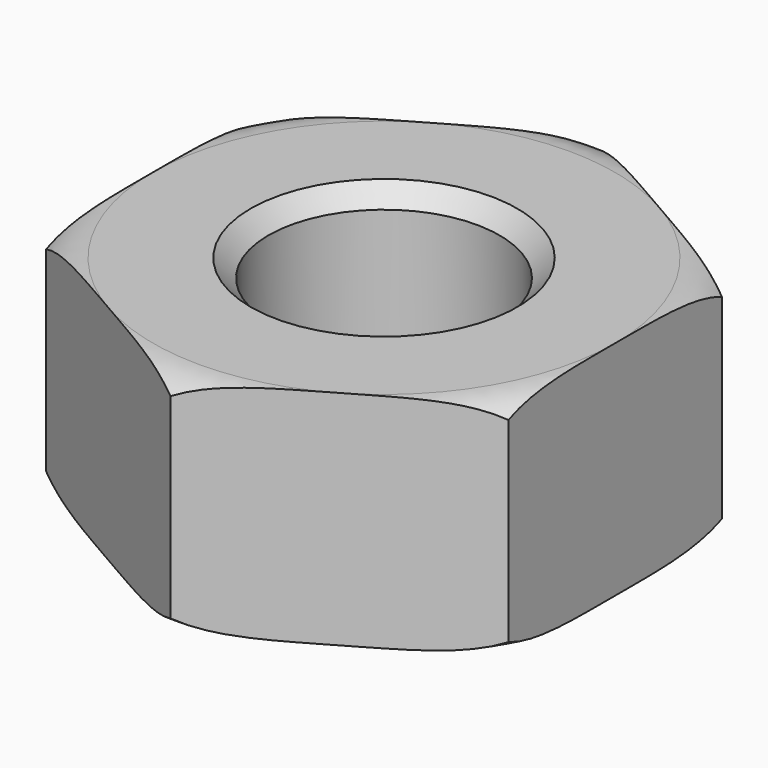
from build123d import *

# Parameters (mm, degrees)
F2_R     = 8.530956
F3_DEPTH = 12.5


with BuildPart() as f1:
    # F0 (on Front) → F1 (revolve)
    with BuildSketch(Plane.XZ):
        with BuildLine():
            Line((-3.25, -2.625), (-3.25, 0))
            Line((-3.25, 0), (-3.25, 2.625))
            Line((-3.25, 2.625), (-3.75, 3.125))
            Line((-3.75, 3.125), (-6.5, 3.125))
            ThreePointArc((-6.5, 3.125), (-7.036601, 3.028199), (-7.505553, 2.75))
            Line((-7.505553, 2.75), (-7.505553, 0))
            Line((-7.505553, 0), (-7.505553, -2.75))
            ThreePointArc((-7.505553, -2.75), (-7.036601, -3.028199), (-6.5, -3.125))
            Line((-6.5, -3.125), (-3.75, -3.125))
            Line((-3.75, -3.125), (-3.25, -2.625))
        make_face()
    revolve(axis=Axis((0, 0, 4.430122), (0, 0, 1)))

    # F2 (on Top) → F3 (cut, symmetric)
    with BuildSketch(Plane.XY):
        Circle(F2_R)
        Polygon((0, 7.505553), (6.5, 3.752777), (6.5, -3.752777), (0, -7.505553), (-6.5, -3.752777), (-6.5, 3.752777), align=None, mode=Mode.SUBTRACT)
    extrude(amount=F3_DEPTH, both=True, mode=Mode.SUBTRACT)


solid = f1.part
